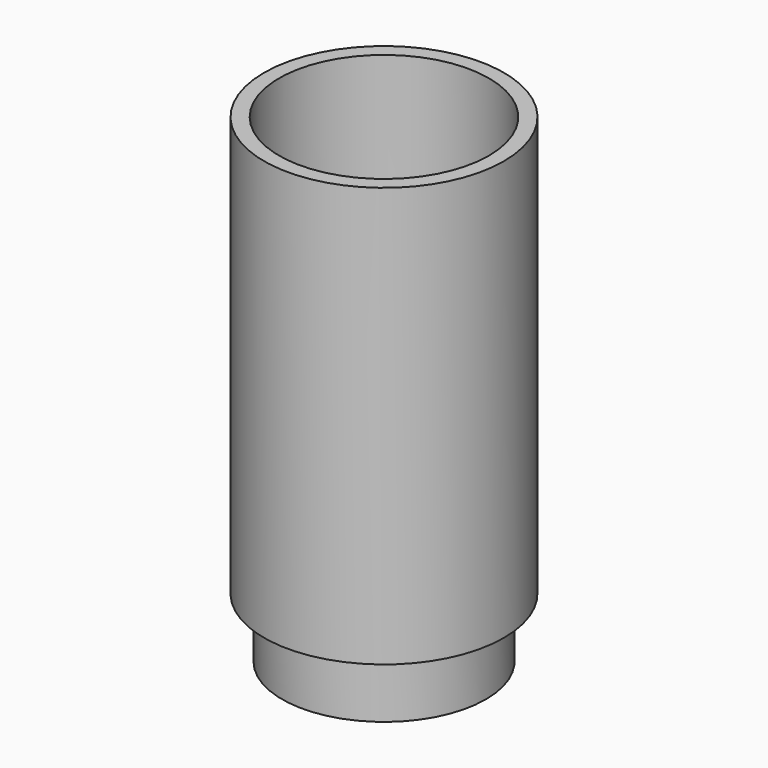
from build123d import *

# Parameters (mm, degrees)
F0_R     = 25.4
F1_DEPTH = 88.9
F2_R     = 22.225
F3_DEPTH = 76.2
F4_R     = 21.59
F5_DEPTH = 12.7
F6_R     = 17.78
F7_DEPTH = 101.601


with BuildPart() as f1:
    # F0 (on Top) → F1 (new body)
    with BuildSketch(Plane.XY):
        Circle(F0_R)
    extrude(amount=F1_DEPTH)

    # F2 (on face) → F3 (cut)
    with BuildSketch(Plane.XY.offset(88.9)):
        Circle(F2_R)
    extrude(amount=-F3_DEPTH, mode=Mode.SUBTRACT)

    # F4 (on face) → F5 (join)
    with BuildSketch(Plane(origin=(0, 0, 0), x_dir=(1, 0, 0), z_dir=(0, 0, -1))):
        Circle(F4_R)
    extrude(amount=F5_DEPTH)

    # F6 (on face) → F7 (cut, through all)
    with BuildSketch(Plane(origin=(0, 0, -12.7), x_dir=(1, 0, 0), z_dir=(0, 0, -1))):
        Circle(F6_R)
    extrude(amount=-F7_DEPTH, mode=Mode.SUBTRACT)


solid = f1.part
